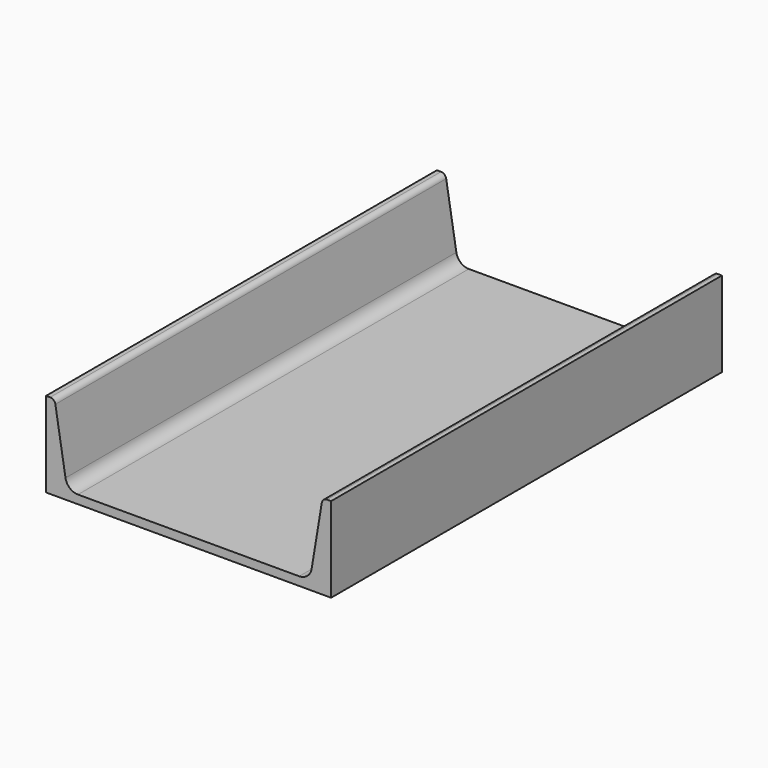
from build123d import *

# Parameters (mm, degrees)
F1_DEPTH = 152.4
F2_R     = 7.874
F3_R     = 3.302


with BuildPart() as f1:
    # F0 (on Front) → F1 (new body, symmetric)
    with BuildSketch(Plane.XZ):
        Polygon((-88.9, 0), (0, 0), (88.9, 0), (88.9, 53.086), (83.566, 53.086), (75.692, 5.334), (0, 5.334), (-75.692, 5.334), (-83.566, 53.086), (-88.9, 53.086), align=None)
    extrude(amount=F1_DEPTH, both=True)

    # F2
    f2_edges = [f1.edges().sort_by_distance(p)[0] for p in [
        (-75.692, 0, 5.334),
        (75.692, 0, 5.334),
    ]]
    fillet(f2_edges, radius=F2_R)

    # F3
    f3_edges = [f1.edges().sort_by_distance(p)[0] for p in [
        (83.566, 0, 53.086),
        (-83.566, 0, 53.086),
    ]]
    fillet(f3_edges, radius=F3_R)


solid = f1.part
